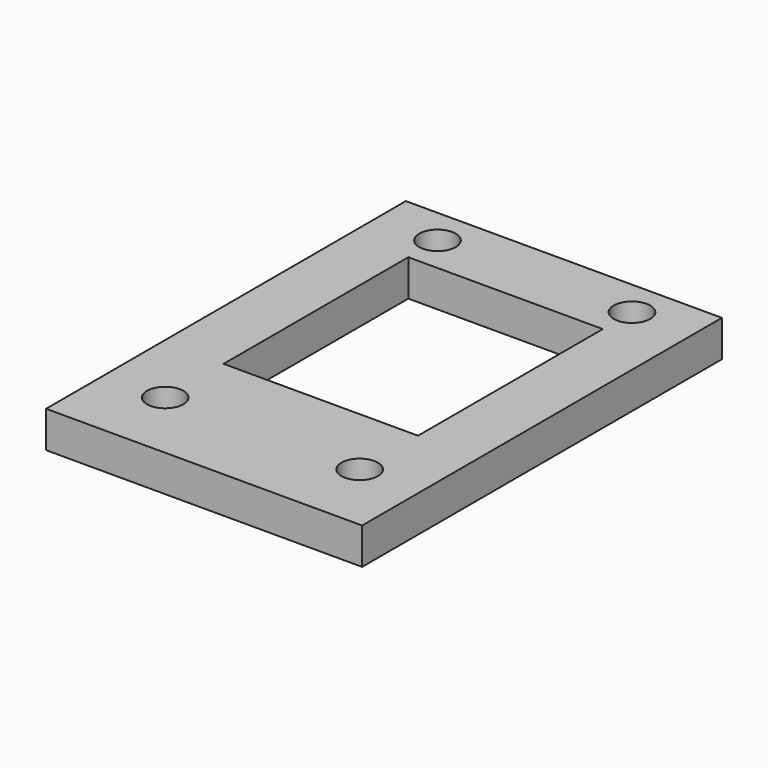
from build123d import *

# Parameters (mm, degrees)
CYLINDER1886_R               = 1.5
CYLINDER1886_DEPTH           = 20
CYLINDER1886_PLACEMENT_ANGLE = -112.5
CYLINDER1887_R               = 1.5
CYLINDER1887_DEPTH           = 20
CYLINDER1887_PLACEMENT_ANGLE = 112.5
CYLINDER1889_R               = 1.5
CYLINDER1889_DEPTH           = 20
CYLINDER1889_PLACEMENT_ANGLE = 112.5
CYLINDER1888_R               = 1.5
CYLINDER1888_DEPTH           = 20
CYLINDER1888_PLACEMENT_ANGLE = -112.5
BOX747_W                     = 16
BOX747_H                     = 19
BOX747_DEPTH                 = 3
BOX746_W                     = 26
BOX746_H                     = 37
BOX746_DEPTH                 = 3
CUT684_PLACEMENT_ANGLE       = 180


with BuildPart() as obj1:
    # Cylinder1886 → Cylinder1886 (new body)
    with BuildSketch(Plane.XY):
        Circle(CYLINDER1886_R)
    extrude(amount=CYLINDER1886_DEPTH)


with BuildPart() as obj1_1:
    # Cylinder1886 placement: moved
    add(obj1.part.moved(Location((-8, 34, 51))).rotate(Axis((-8, 34, 51), (0, 0, 1)), CYLINDER1886_PLACEMENT_ANGLE))


with BuildPart() as obj2:
    # Cylinder1887 → Cylinder1887 (new body)
    with BuildSketch(Plane.XY):
        Circle(CYLINDER1887_R)
    extrude(amount=CYLINDER1887_DEPTH)


with BuildPart() as obj2_1:
    # Cylinder1887 placement: moved
    add(obj2.part.moved(Location((8, 62, 51))).rotate(Axis((8, 62, 51), (0, 0, -1)), CYLINDER1887_PLACEMENT_ANGLE))


with BuildPart() as obj3:
    # Cylinder1889 → Cylinder1889 (new body)
    with BuildSketch(Plane.XY):
        Circle(CYLINDER1889_R)
    extrude(amount=CYLINDER1889_DEPTH)


with BuildPart() as obj3_1:
    # Cylinder1889 placement: moved
    add(obj3.part.moved(Location((-8, 62, 51))).rotate(Axis((-8, 62, 51), (0, 0, -1)), CYLINDER1889_PLACEMENT_ANGLE))


with BuildPart() as compound846:
    # Cylinder1888 → Cylinder1888 (new body)
    with BuildSketch(Plane.XY):
        Circle(CYLINDER1888_R)
    extrude(amount=CYLINDER1888_DEPTH)


with BuildPart() as compound846_1:
    # Cylinder1888 placement: moved
    add(compound846.part.moved(Location((8, 34, 51))).rotate(Axis((8, 34, 51), (0, 0, 1)), CYLINDER1888_PLACEMENT_ANGLE))

    # Compound846: union obj1, obj2, obj3
    add(obj1_1.part)
    add(obj2_1.part)
    add(obj3_1.part)


with BuildPart() as compound846_2:
    # Compound846 placement: moved
    add(compound846_1.part.moved(Location((0, -94, -180))))


with BuildPart() as krychle746:
    # Box747 → Box747 (new body)
    with BuildSketch(Plane(origin=(-8, 37, 27), x_dir=(1, 0, 0), z_dir=(0, 0, 1))):
        with Locations((8, 9.5)):
            Rectangle(BOX747_W, BOX747_H)
    extrude(amount=BOX747_DEPTH)


with BuildPart() as cut685:
    # Box746 → Box746 (new body)
    with BuildSketch(Plane(origin=(-13, 31, 27), x_dir=(1, 0, 0), z_dir=(0, 0, 1))):
        with Locations((13, 18.5)):
            Rectangle(BOX746_W, BOX746_H)
    extrude(amount=BOX746_DEPTH)

    # Cut684: cut Krychle746
    add(krychle746.part, mode=Mode.SUBTRACT)


with BuildPart() as cut685_1:
    # Cut684 placement: moved
    add(cut685.part.moved(Location((0, 2, -94))).rotate(Axis((0, 2, -94), (1, 0, 0)), CUT684_PLACEMENT_ANGLE))

    # Cut685: cut Compound846
    add(compound846_2.part, mode=Mode.SUBTRACT)


with BuildPart() as cut685_2:
    # Cut685 placement: moved
    add(cut685_1.part.moved(Location((0, 0, -3))))


solid = cut685_2.part
